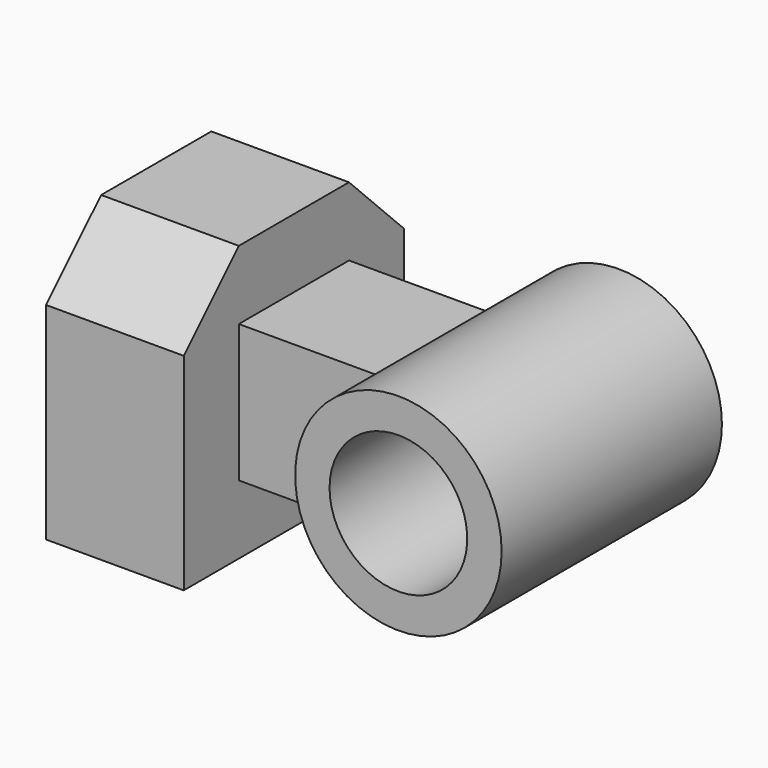
from build123d import *

# Parameters (mm, degrees)
F1_DEPTH  = 12.7
F2_W      = 12.7
F2_H      = 12.7
F3_DEPTH  = 25.4
F5_DEPTH  = 12.7
F6_R      = 9.525
F7_DEPTH  = 6.35
F7_FACE_R = 9.525
F8_DEPTH  = 19.05
F9_R      = 6.35
F10_DEPTH = 25.4


with BuildPart() as f1:
    # F0 (on Right) → F1 (new body)
    with BuildSketch(Plane.YZ):
        Polygon((0, 19.05), (0, 0), (25.4, 0), (25.4, 19.05), (19.05, 25.4), (6.35, 25.4), align=None)
    extrude(amount=F1_DEPTH)

    # F2 (on face) → F3 (join)
    with BuildSketch(Plane.YZ.offset(12.7)):
        with Locations((12.7, 12.7)):
            Rectangle(F2_W, F2_H)
    extrude(amount=F3_DEPTH)

    # F4 (on face) → F5 (cut)
    with BuildSketch(Plane.XZ.offset(-6.35)):
        with BuildLine():
            Line((38.1, 6.35), (38.1, 19.05))
            Line((38.1, 19.05), (25.4, 19.05))
            ThreePointArc((25.4, 19.05), (22.974516, 12.7), (25.4, 6.35))
            Line((25.4, 6.35), (38.1, 6.35))
        make_face()
    extrude(amount=-F5_DEPTH, mode=Mode.SUBTRACT)



with BuildPart() as f7:
    # F6 (on face) → F7 (new body)
    with BuildSketch(Plane.XZ.offset(-6.35)):
        with Locations((32.499516, 12.7)):
            Circle(F6_R)
    extrude(amount=F7_DEPTH)


with BuildPart() as f1_1:
    add(f1.part)

    add(f7.part)  # F8 merges F7
    # F7_face (on face) → F8 (join)
    with BuildSketch(Plane(origin=(32.499516, 6.35, 12.7), x_dir=(1, 0, 0), z_dir=(0, 1, 0))):
        Circle(F7_FACE_R)
    extrude(amount=F8_DEPTH)

    # F9 (on face) → F10 (cut)
    with BuildSketch(Plane(origin=(0, 25.4, 0), x_dir=(-1, 0, 0), z_dir=(0, 1, 0))):
        with Locations((-32.499516, 12.7)):
            Circle(F9_R)
    extrude(amount=-F10_DEPTH, mode=Mode.SUBTRACT)


solid = f1_1.part
